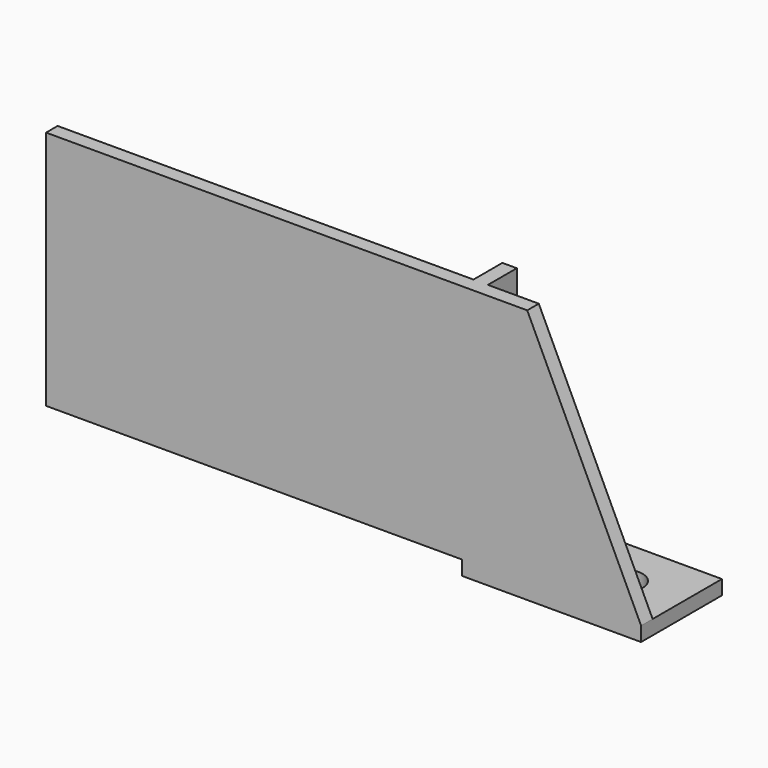
from build123d import *

# Parameters (mm, degrees)
F1_DEPTH = 6
F2_W     = 74.469754
F2_H     = 42
F3_DEPTH = 6
F5_D     = 16
F7_DEPTH = 15


with BuildPart() as f1:
    # F0 (on Front) → F1 (new body)
    with BuildSketch(Plane.XZ):
        Polygon((0, 50), (-200, 50), (-200, -50), (0, -50), (47.323171, -50), align=None)
    extrude(amount=F1_DEPTH)

    # F2 (on face) → F3 (join)
    with BuildSketch(Plane(origin=(0, 0, -50), x_dir=(1, 0, 0), z_dir=(0, 0, -1))):
        with Locations((10.088294, -15)):
            Rectangle(F2_W, F2_H)
        with Locations((10.088294, -15)):
            Rectangle(F2_W, F2_H)
    extrude(amount=F3_DEPTH)

    # F5 (through all)
    with Locations(Plane.XY.offset(-50)):
        with Locations((23.134094, 15)):
            Hole(F5_D / 2)

    # F6 (on face) → F7 (join)
    with BuildSketch(Plane(origin=(0, 0, 0), x_dir=(-1, 0, 0), z_dir=(0, 1, 0))):
        Polygon((27.146583, 50), (21.146583, 50), (21.146583, -50), (25.706659, -50), (27.146583, -50), align=None)
    extrude(amount=F7_DEPTH)


solid = f1.part
